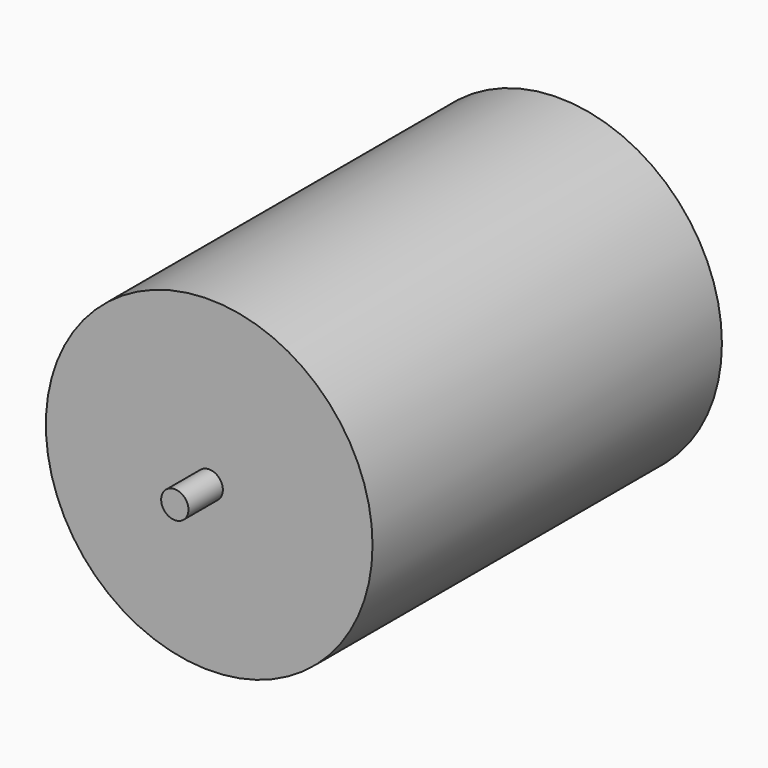
from build123d import *

# Parameters (mm, degrees)
F0_R     = 19
F1_DEPTH = 50.8
F3_R     = 1.5875
F4_DEPTH = 5


with BuildPart() as f1:
    # F0 (on Front) → F1 (new body)
    with BuildSketch(Plane.XZ):
        Circle(F0_R)
    extrude(amount=F1_DEPTH)

    # F3 (on offset) → F4 (join)
    with BuildSketch(Plane.XZ.offset(50.8)):
        Circle(F3_R)
    extrude(amount=F4_DEPTH)


solid = f1.part
